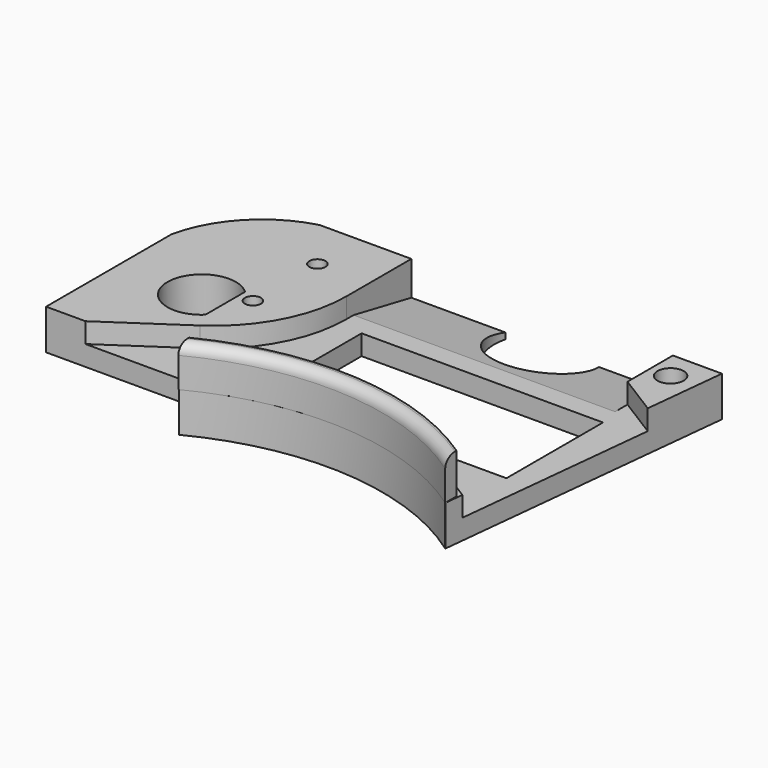
from build123d import *

# Parameters (mm, degrees)
PAD002_DEPTH      = 10
PAD003_DEPTH      = 10
FILLET_R          = 2.5
BOX013_W          = 42
BOX013_H          = 20
BOX013_DEPTH      = 20
CYLINDER009_R     = 12
CYLINDER009_DEPTH = 10
CYLINDER010_R     = 5
CYLINDER010_DEPTH = 4
CYLINDER011_R     = 3.25
CYLINDER011_DEPTH = 10
CYLINDER012_R     = 2
CYLINDER012_DEPTH = 10
CYLINDER013_R     = 2
CYLINDER013_DEPTH = 10
CYLINDER014_R     = 3
CYLINDER014_DEPTH = 4
CYLINDER015_R     = 3
CYLINDER015_DEPTH = 4
BOX014_W          = 83
BOX014_H          = 10
BOX014_DEPTH      = 10
BOX015_W          = 60
BOX015_H          = 30
BOX015_DEPTH      = 10
BOX016_W          = 65
BOX016_H          = 62
BOX016_DEPTH      = 10
BOX017_W          = 47
BOX017_H          = 23
BOX017_DEPTH      = 5
BOX018_W          = 46
BOX018_H          = 40
BOX018_DEPTH      = 5
BOX019_W          = 65
BOX019_H          = 22
BOX019_DEPTH      = 10
FILLET001_R       = 33
POCKET_DEPTH      = 10


with BuildPart() as part:
    # Sketch012 → Pad002 (new body)
    with BuildSketch(Plane.XY):
        with BuildLine():
            Line((-53.81, 92.96), (46.19, 92.96))
            Line((46.19, 17), (46.19, 92.96))
            Line((38.19, 17), (46.19, 17))
            ThreePointArc((38.19, 17), (-1.06, 29.559572), (-40.31, 17))
            Line((-73.81, 17), (-40.31, 17))
            Line((-73.81, 72), (-73.81, 17))
            ThreePointArc((-53.81, 92.96), (-66.759872, 85.294763), (-73.81, 72))
        make_face()
    extrude(amount=PAD002_DEPTH)

    # Sketch013 (on Face9 of Pad002) → Pad003 (join)
    with BuildSketch(Plane.XY.offset(10)):
        with BuildLine():
            ThreePointArc((38.19, 17), (-0.906062, 29.351664), (-40, 16.993281))
            Line((-40, 20.493281), (-40, 16.993281))
            ThreePointArc((38.19, 20.5), (-0.906031, 32.489323), (-40, 20.493281))
            Line((38.19, 20.5), (38.19, 17))
        make_face()
    extrude(amount=PAD003_DEPTH)

    # Fillet
    fillet_edges = [part.edges().sort_by_distance(p)[0] for p in [
        (-0.906062, 29.351664, 20),
    ]]
    fillet(fillet_edges, radius=FILLET_R)

    # Box013 → Box013 (cut)
    with BuildSketch(Plane(origin=(-74, 13, 0), x_dir=(1, 0, 0), z_dir=(0, 0, 1))):
        with Locations((21, 10)):
            Rectangle(BOX013_W, BOX013_H)
    extrude(amount=BOX013_DEPTH, mode=Mode.SUBTRACT)

    # Cylinder009 → Cylinder009 (cut)
    with BuildSketch(Plane(origin=(4, 90, 0), x_dir=(1, 0, 0), z_dir=(0, 0, 1))):
        Circle(CYLINDER009_R)
    extrude(amount=CYLINDER009_DEPTH, mode=Mode.SUBTRACT)

    # Cylinder010 → Cylinder010 (cut)
    with BuildSketch(Plane(origin=(39, 86, 0), x_dir=(1, 0, 0), z_dir=(0, 0, 1))):
        Circle(CYLINDER010_R)
    extrude(amount=CYLINDER010_DEPTH, mode=Mode.SUBTRACT)

    # Cylinder011 → Cylinder011 (cut)
    with BuildSketch(Plane(origin=(39, 86, 0), x_dir=(1, 0, 0), z_dir=(0, 0, 1))):
        Circle(CYLINDER011_R)
    extrude(amount=CYLINDER011_DEPTH, mode=Mode.SUBTRACT)

    # Cylinder012 → Cylinder012 (cut)
    with BuildSketch(Plane(origin=(-43.9, 79.9, 0), x_dir=(1, 0, 0), z_dir=(0, 0, 1))):
        Circle(CYLINDER012_R)
    extrude(amount=CYLINDER012_DEPTH, mode=Mode.SUBTRACT)

    # Cylinder013 → Cylinder013 (cut)
    with BuildSketch(Plane(origin=(-44, 60, 0), x_dir=(1, 0, 0), z_dir=(0, 0, 1))):
        Circle(CYLINDER013_R)
    extrude(amount=CYLINDER013_DEPTH, mode=Mode.SUBTRACT)

    # Cylinder014 → Cylinder014 (cut)
    with BuildSketch(Plane(origin=(-43.9, 79.9, 0), x_dir=(1, 0, 0), z_dir=(0, 0, 1))):
        Circle(CYLINDER014_R)
    extrude(amount=CYLINDER014_DEPTH, mode=Mode.SUBTRACT)

    # Cylinder015 → Cylinder015 (cut)
    with BuildSketch(Plane(origin=(-44, 60, 0), x_dir=(1, 0, 0), z_dir=(0, 0, 1))):
        Circle(CYLINDER015_R)
    extrude(amount=CYLINDER015_DEPTH, mode=Mode.SUBTRACT)

    # Box014 → Box014 (cut)
    with BuildSketch(Plane(origin=(47.85, 13, 0), x_dir=(0.104528, 0.994522, 0), z_dir=(0, 0, 1))):
        with Locations((41.5, 5)):
            Rectangle(BOX014_W, BOX014_H)
    extrude(amount=BOX014_DEPTH, mode=Mode.SUBTRACT)

    # Box015 → Box015 (cut)
    with BuildSketch(Plane(origin=(-25, 40, 0), x_dir=(1, 0, 0), z_dir=(0, 0, 1))):
        with Locations((30, 15)):
            Rectangle(BOX015_W, BOX015_H)
    extrude(amount=BOX015_DEPTH, mode=Mode.SUBTRACT)

    # Box016 → Box016 (cut)
    with BuildSketch(Plane(origin=(-31, 33, 5), x_dir=(1, 0, 0), z_dir=(0, 0, 1))):
        with Locations((32.5, 31)):
            Rectangle(BOX016_W, BOX016_H)
    extrude(amount=BOX016_DEPTH, mode=Mode.SUBTRACT)

    # Box017 → Box017 (cut)
    with BuildSketch(Plane(origin=(-57, 10, 5), x_dir=(0.829038, 0.559193, 0), z_dir=(0, 0, 1))):
        with Locations((23.5, 11.5)):
            Rectangle(BOX017_W, BOX017_H)
    extrude(amount=BOX017_DEPTH, mode=Mode.SUBTRACT)

    # Box018 → Box018 (cut)
    with BuildSketch(Plane(origin=(43, 19, 5), x_dir=(0.529919, 0.848048, 0), z_dir=(0, 0, 1))):
        with Locations((23, 20)):
            Rectangle(BOX018_W, BOX018_H)
    extrude(amount=BOX018_DEPTH, mode=Mode.SUBTRACT)

    # Box019 → Box019 (cut)
    with BuildSketch(Plane(origin=(-31, 75, 5), x_dir=(1, 0, 0), z_dir=(0, 0.190809, 0.981627))):
        with Locations((32.5, 11)):
            Rectangle(BOX019_W, BOX019_H)
    extrude(amount=BOX019_DEPTH, mode=Mode.SUBTRACT)

    # Fillet001
    fillet001_edges = [part.edges().sort_by_distance(p)[0] for p in [
        (-31, 55.280234, 7.5),
    ]]
    fillet(fillet001_edges, radius=FILLET001_R)

    # Sketch015 (on Face8 of Fillet001) → Pocket (cut)
    with BuildSketch(Plane(origin=(-31, 75, 10), x_dir=(1, 0, 0), z_dir=(0, 0, 1))):
        with BuildLine():
            ThreePointArc((-16.55, -13), (-30.9, -19.166644), (-16.55, -25.333288))
            Line((-16.55, -13), (-16.55, -25.333288))
        make_face()
    extrude(amount=-POCKET_DEPTH, mode=Mode.SUBTRACT)


solid = part.part
